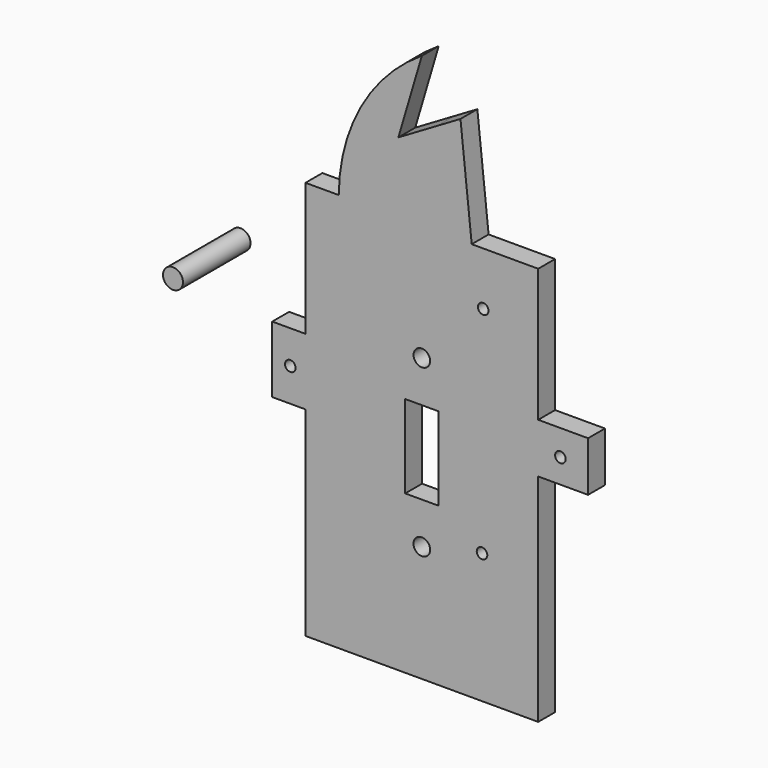
from build123d import *

# Parameters (mm, degrees)
F0_R     = 1.5875
F0_R_2   = 2.5
F0_W     = 10
F0_H     = 25
F1_DEPTH = 6.35
F0_R_3   = 3
F2_DEPTH = 25.4


with BuildPart() as f1:
    # F0 (on Front) → F1 (new body)
    with BuildSketch(Plane.XZ):
        with BuildLine():
            Line((-35, -60), (35, -60))
            Line((35, -60), (35, 5))
            Line((35, 5), (50, 5))
            Line((50, 5), (50, 20))
            Line((50, 20), (35, 20))
            Line((35, 20), (35, 60))
            Line((35, 60), (15, 60))
            Line((15, 60), (11.6191543639, 92.0695438981))
            Line((11.6191543639, 92.0695438981), (4.6488310281, 87.9780731748))
            Line((4.6488310281, 87.9780731748), (-7.0641576312, 81.1027321219))
            Line((-7.0641576312, 81.1027321219), (0, 105))
            ThreePointArc((0, 105), (-18.2401423346, 85.6889679637), (-25, 60))
            Line((-25, 60), (-35, 60))
            Line((-35, 60), (-35, 20))
            Line((-35, 20), (-45, 20))
            Line((-45, 20), (-45, 0))
            Line((-45, 0), (-35, 0))
            Line((-35, 0), (-35, -60))
        make_face()
        with Locations((-39.5677238703, 10)):
            Circle(F0_R, mode=Mode.SUBTRACT)
        with Locations((0, -25)):
            Circle(F0_R_2, mode=Mode.SUBTRACT)
        with Locations((18.1006677449, -20.8480320871)):
            Circle(F0_R, mode=Mode.SUBTRACT)
        Rectangle(F0_W, F0_H, mode=Mode.SUBTRACT)
        with Locations((41.6760370135, 12.2674684972)):
            Circle(F0_R, mode=Mode.SUBTRACT)
        with Locations((0, 25)):
            Circle(F0_R_2, mode=Mode.SUBTRACT)
        with Locations((18.4745215804, 43.9903687234)):
            Circle(F0_R, mode=Mode.SUBTRACT)
        with BuildLine():
            Line((-35, -60), (35, -60))
            Line((35, -60), (35, 5))
            Line((35, 5), (50, 5))
            Line((50, 5), (50, 20))
            Line((50, 20), (35, 20))
            Line((35, 20), (35, 60))
            Line((35, 60), (15, 60))
            Line((15, 60), (11.6191543639, 92.0695438981))
            Line((11.6191543639, 92.0695438981), (4.6488310281, 87.9780731748))
            Line((4.6488310281, 87.9780731748), (-7.0641576312, 81.1027321219))
            Line((-7.0641576312, 81.1027321219), (0, 105))
            ThreePointArc((0, 105), (-18.2401423346, 85.6889679637), (-25, 60))
            Line((-25, 60), (-35, 60))
            Line((-35, 60), (-35, 20))
            Line((-35, 20), (-45, 20))
            Line((-45, 20), (-45, 0))
            Line((-45, 0), (-35, 0))
            Line((-35, 0), (-35, -60))
        make_face()
        with Locations((-39.5677238703, 10)):
            Circle(F0_R, mode=Mode.SUBTRACT)
        with Locations((0, -25)):
            Circle(F0_R_2, mode=Mode.SUBTRACT)
        with Locations((18.1006677449, -20.8480320871)):
            Circle(F0_R, mode=Mode.SUBTRACT)
        Rectangle(F0_W, F0_H, mode=Mode.SUBTRACT)
        with Locations((41.6760370135, 12.2674684972)):
            Circle(F0_R, mode=Mode.SUBTRACT)
        with Locations((0, 25)):
            Circle(F0_R_2, mode=Mode.SUBTRACT)
        with Locations((18.4745215804, 43.9903687234)):
            Circle(F0_R, mode=Mode.SUBTRACT)
        with BuildLine():
            Line((-35, -60), (35, -60))
            Line((35, -60), (35, 5))
            Line((35, 5), (50, 5))
            Line((50, 5), (50, 20))
            Line((50, 20), (35, 20))
            Line((35, 20), (35, 60))
            Line((35, 60), (15, 60))
            Line((15, 60), (11.6191543639, 92.0695438981))
            Line((11.6191543639, 92.0695438981), (4.6488310281, 87.9780731748))
            Line((4.6488310281, 87.9780731748), (-7.0641576312, 81.1027321219))
            Line((-7.0641576312, 81.1027321219), (0, 105))
            ThreePointArc((0, 105), (-18.2401423346, 85.6889679637), (-25, 60))
            Line((-25, 60), (-35, 60))
            Line((-35, 60), (-35, 20))
            Line((-35, 20), (-45, 20))
            Line((-45, 20), (-45, 0))
            Line((-45, 0), (-35, 0))
            Line((-35, 0), (-35, -60))
        make_face()
        with Locations((-39.5677238703, 10)):
            Circle(F0_R, mode=Mode.SUBTRACT)
        with Locations((0, -25)):
            Circle(F0_R_2, mode=Mode.SUBTRACT)
        with Locations((18.1006677449, -20.8480320871)):
            Circle(F0_R, mode=Mode.SUBTRACT)
        Rectangle(F0_W, F0_H, mode=Mode.SUBTRACT)
        with Locations((41.6760370135, 12.2674684972)):
            Circle(F0_R, mode=Mode.SUBTRACT)
        with Locations((0, 25)):
            Circle(F0_R_2, mode=Mode.SUBTRACT)
        with Locations((18.4745215804, 43.9903687234)):
            Circle(F0_R, mode=Mode.SUBTRACT)
        with BuildLine():
            Line((-35, -60), (35, -60))
            Line((35, -60), (35, 5))
            Line((35, 5), (50, 5))
            Line((50, 5), (50, 20))
            Line((50, 20), (35, 20))
            Line((35, 20), (35, 60))
            Line((35, 60), (15, 60))
            Line((15, 60), (11.6191543639, 92.0695438981))
            Line((11.6191543639, 92.0695438981), (4.6488310281, 87.9780731748))
            Line((4.6488310281, 87.9780731748), (-7.0641576312, 81.1027321219))
            Line((-7.0641576312, 81.1027321219), (0, 105))
            ThreePointArc((0, 105), (-18.2401423346, 85.6889679637), (-25, 60))
            Line((-25, 60), (-35, 60))
            Line((-35, 60), (-35, 20))
            Line((-35, 20), (-45, 20))
            Line((-45, 20), (-45, 0))
            Line((-45, 0), (-35, 0))
            Line((-35, 0), (-35, -60))
        make_face()
        with Locations((-39.5677238703, 10)):
            Circle(F0_R, mode=Mode.SUBTRACT)
        with Locations((0, -25)):
            Circle(F0_R_2, mode=Mode.SUBTRACT)
        with Locations((18.1006677449, -20.8480320871)):
            Circle(F0_R, mode=Mode.SUBTRACT)
        Rectangle(F0_W, F0_H, mode=Mode.SUBTRACT)
        with Locations((41.6760370135, 12.2674684972)):
            Circle(F0_R, mode=Mode.SUBTRACT)
        with Locations((0, 25)):
            Circle(F0_R_2, mode=Mode.SUBTRACT)
        with Locations((18.4745215804, 43.9903687234)):
            Circle(F0_R, mode=Mode.SUBTRACT)
    extrude(amount=F1_DEPTH)


with BuildPart() as f2:
    # F0 (on Front) → F2 (new body)
    with BuildSketch(Plane.XZ):
        with Locations((-59.6105381846, 34.3868359923)):
            Circle(F0_R_3)
    extrude(amount=F2_DEPTH)


solid = Compound([f1.part, f2.part])
